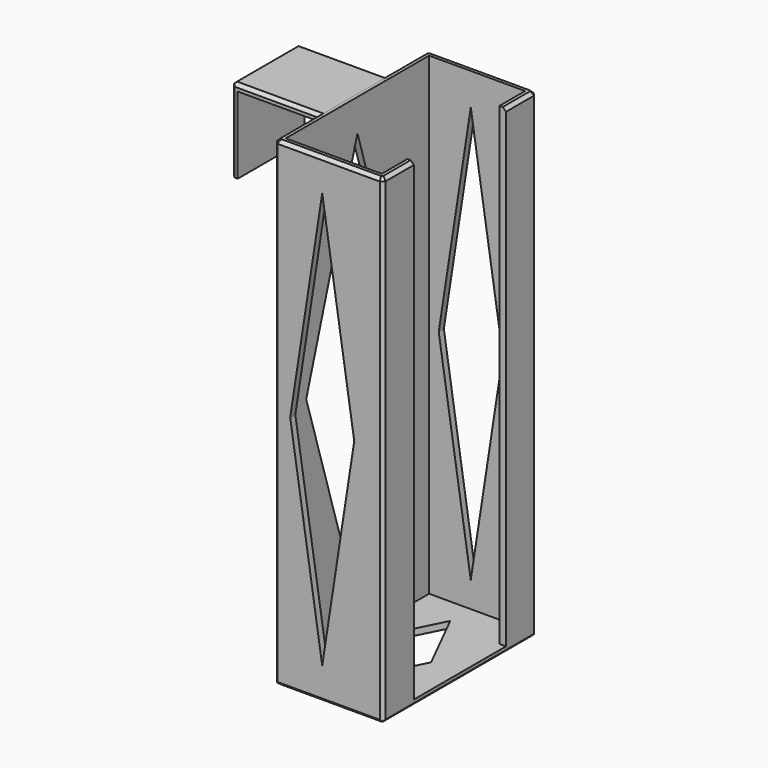
from build123d import *

# Parameters (mm, degrees)
BOX003_W                       = 28
BOX003_H                       = 26
BOX003_DEPTH                   = 2
BOX004_W                       = 2
BOX004_H                       = 26
BOX004_DEPTH                   = 26
CHAMFER003_SIZE                = 1
CHAMFER004_SIZE                = 1
EXTRUDE_DEPTH                  = 90
EXTRUDE_ONTO_SKETCH_ROLL_ANGLE = 90
BOX005_W                       = 11
BOX005_H                       = 36
BOX005_DEPTH                   = 148
BOX002_W                       = 30
BOX002_H                       = 56
BOX002_DEPTH                   = 148
BOX_W                          = 34
BOX_H                          = 60
BOX_DEPTH                      = 150
POCKET_DEPTH                   = 5
POCKET001_DEPTH                = 5
CHAMFER_SIZE                   = 1
CHAMFER001_SIZE                = 1
CHAMFER002_SIZE                = 1
CHAMFER005_SIZE                = 1


with BuildPart() as obj1:
    # Box003 → Box003 (new body)
    with BuildSketch(Plane(origin=(-26, 17, 148), x_dir=(1, 0, 0), z_dir=(0, 0, 1))):
        with Locations((14, 13)):
            Rectangle(BOX003_W, BOX003_H)
    extrude(amount=BOX003_DEPTH)


with BuildPart() as chamfer004:
    # Box004 → Box004 (new body)
    with BuildSketch(Plane(origin=(-26, 17, 124), x_dir=(1, 0, 0), z_dir=(0, 0, 1))):
        with Locations((1, 13)):
            Rectangle(BOX004_W, BOX004_H)
    extrude(amount=BOX004_DEPTH)

    # Fusion: union obj1
    add(obj1.part)


with BuildPart() as chamfer004_1:
    # Fusion placement: moved
    add(chamfer004.part.moved(Location((-1, 0, 0))))

    # Chamfer003
    chamfer003_edges = [chamfer004_1.edges().sort_by_distance(p)[0] for p in [
        (-27, 30, 150),
        (-26, 43, 150),
        (-26, 17, 150),
        (-12, 43, 150),
        (-12, 17, 150),
    ]]
    chamfer(chamfer003_edges, length=CHAMFER003_SIZE)

    # Chamfer004
    chamfer004_edges = [chamfer004_1.edges().sort_by_distance(p)[0] for p in [
        (-27, 17, 148.5),
        (-27, 43, 148.5),
        (-27, 17, 136),
        (-27, 43, 136),
    ]]
    chamfer(chamfer004_edges, length=CHAMFER004_SIZE)


with BuildPart() as extrude_body:
    # Sketch as drawn → Extrude (new)
    with BuildSketch(Plane.XY):
        Polygon((15, 140), (25, 75), (15, 10), (5, 75), align=None)
    extrude(amount=-EXTRUDE_DEPTH)


with BuildPart() as extrude_body_1:
    # Extrude onto Sketch roll: moved
    add(extrude_body.part.rotate(Axis((0, 0, 0), (1, 0, 0)), EXTRUDE_ONTO_SKETCH_ROLL_ANGLE))


with BuildPart() as extrude_body_2:
    # Extrude onto Sketch placement: moved
    add(extrude_body_1.part)


with BuildPart() as extrude_body_3:
    # Extrude placement: moved
    add(extrude_body_2.part.moved(Location((0, -11, 0))))


with BuildPart() as inside_cup001:
    # Box005 → Box005 (new body)
    with BuildSketch(Plane(origin=(26, 12, 2), x_dir=(1, 0, 0), z_dir=(0, 0, 1))):
        with Locations((5.5, 18)):
            Rectangle(BOX005_W, BOX005_H)
    extrude(amount=BOX005_DEPTH)


with BuildPart() as inside_cup:
    # Box002 → Box002 (new body)
    with BuildSketch(Plane(origin=(2, 2, 2), x_dir=(1, 0, 0), z_dir=(0, 0, 1))):
        with Locations((15, 28)):
            Rectangle(BOX002_W, BOX002_H)
    extrude(amount=BOX002_DEPTH)


with BuildPart() as chamfer005:
    # Box → Box (new body)
    with BuildSketch(Plane.XY):
        with Locations((17, 30)):
            Rectangle(BOX_W, BOX_H)
    extrude(amount=BOX_DEPTH)

    # Cut: cut inside-cup
    add(inside_cup.part, mode=Mode.SUBTRACT)

    # Cut001: cut inside-cup001
    add(inside_cup001.part, mode=Mode.SUBTRACT)

    # Cut002: cut Extrude body
    add(extrude_body_3.part, mode=Mode.SUBTRACT)

    # Sketch001 → Pocket (cut)
    with BuildSketch(Plane(origin=(0, 0, 0), x_dir=(0, -1, 0), z_dir=(-1, 0, 0))):
        Polygon((-30, 140), (-10, 75), (-30, 10), (-50, 75), align=None)
    extrude(amount=-POCKET_DEPTH, mode=Mode.SUBTRACT)

    # Sketch002 → Pocket001 (cut)
    with BuildSketch(Plane(origin=(0, 0, 0), x_dir=(1, 0, 0), z_dir=(0, 0, -1))):
        Polygon((15, -10), (25, -30), (15, -50), (5, -30), align=None)
    extrude(amount=-POCKET001_DEPTH, mode=Mode.SUBTRACT)

    # Chamfer
    chamfer_edges = [chamfer005.edges().sort_by_distance(p)[0] for p in [
        (0, 30, 0),
        (17, 0, 0),
        (17, 60, 0),
        (34, 30, 0),
    ]]
    chamfer(chamfer_edges, length=CHAMFER_SIZE)

    # Chamfer001
    chamfer001_edges = [chamfer005.edges().sort_by_distance(p)[0] for p in [
        (34, 0, 75.5),
        (34, 60, 75.5),
    ]]
    chamfer(chamfer001_edges, length=CHAMFER001_SIZE)

    # Chamfer002
    chamfer002_edges = [chamfer005.edges().sort_by_distance(p)[0] for p in [
        (0, 0, 75.5),
        (0, 60, 75.5),
    ]]
    chamfer(chamfer002_edges, length=CHAMFER002_SIZE)

    # Chamfer005
    chamfer005_edges = [chamfer005.edges().sort_by_distance(p)[0] for p in [
        (17, 0, 150),
        (0.5, 0.5, 150),
        (33.5, 0.5, 150),
        (17, 60, 150),
        (0.5, 59.5, 150),
        (33.5, 59.5, 150),
        (0, 30, 150),
        (34, 53.5, 150),
        (34, 6.5, 150),
    ]]
    chamfer(chamfer005_edges, length=CHAMFER005_SIZE)


solid = Compound([chamfer004_1.part, chamfer005.part])
